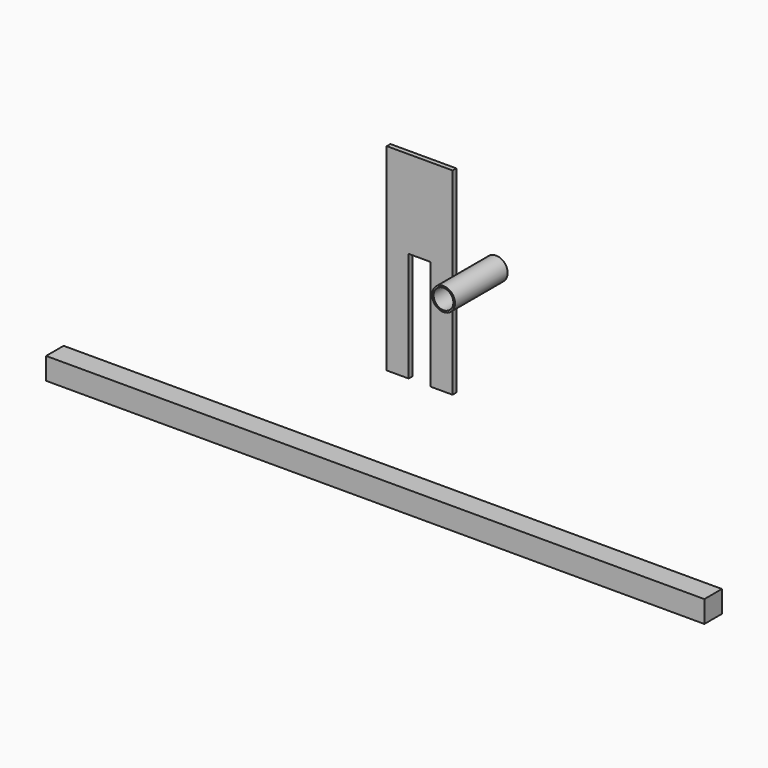
from build123d import *

# Parameters (mm, degrees)
F0_R     = 17.5
F0_R_2   = 15
F1_DEPTH = 100
F3_DEPTH = 7
F4_W     = 1000
F4_H     = 33.3
F5_DEPTH = 33.3


with BuildPart() as f1:
    # F0 (on Front) → F1 (new body)
    with BuildSketch(Plane.XZ):
        with Locations((-34.691794, 0)):
            Circle(F0_R)
        with Locations((-34.691794, 0)):
            Circle(F0_R_2, mode=Mode.SUBTRACT)
    extrude(amount=F1_DEPTH)


with BuildPart() as f3:
    # F2 (on Front) → F3 (new body)
    with BuildSketch(Plane.XZ):
        Polygon((-95.282343, -185.589922), (-95.282343, 114.410078), (-195.282343, 114.410078), (-195.282343, -185.589922), (-161.982343, -185.589922), (-161.982343, -18.791569), (-128.582343, -18.791569), (-128.582343, -185.589922), align=None)
    extrude(amount=F3_DEPTH)


with BuildPart() as f5:
    # F4 (on Front) → F5 (new body)
    with BuildSketch(Plane.XZ):
        with Locations((-191.730669, -333.533198)):
            Rectangle(F4_W, F4_H)
    extrude(amount=F5_DEPTH)


solid = Compound([f1.part, f3.part, f5.part])
